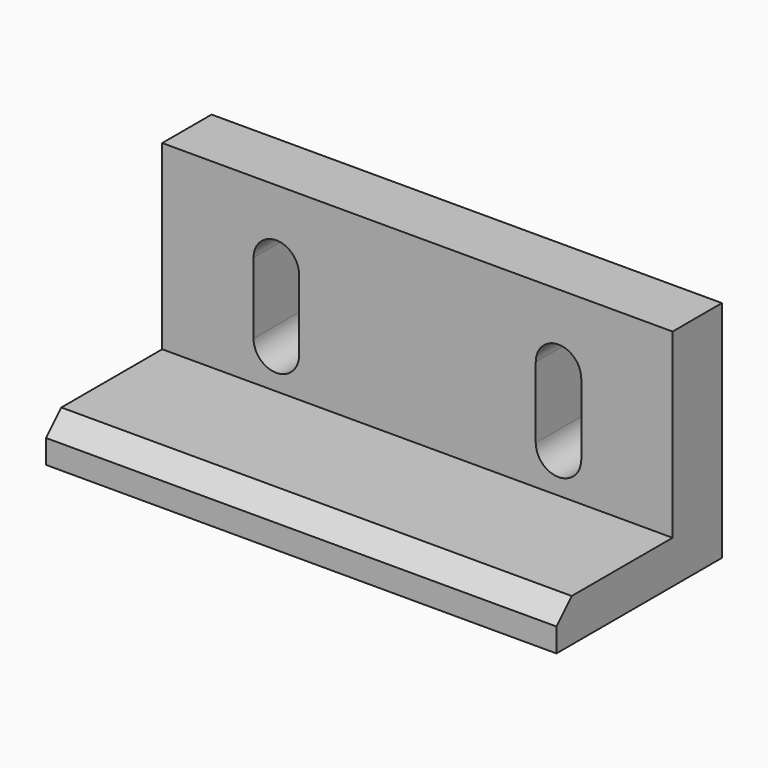
from build123d import *

# Parameters (mm, degrees)
F0_W     = 237.5140190125
F0_H     = 104.4240146875
F1_DEPTH = 28.702
F2_W     = 237.5140190125
F2_H     = 19.9324190617
F3_DEPTH = 67.564
F4_SIZE2 = 8.89
F4_SIZE  = 8.89


with BuildPart() as f1:
    # F0 (on Front) → F1 (new body)
    with BuildSketch(Plane.XZ):
        with Locations((0, -52.2120073438)):
            Rectangle(F0_W, F0_H)
        with BuildLine():
            ThreePointArc((-76.26119588, -33.1665679002), (-65.6689032912, -22.5742753114), (-55.0766107024, -33.1665679002))
            Line((-55.0766107024, -33.1665679002), (-55.0766107024, -66.2979632616))
            ThreePointArc((-55.0766107024, -66.2979632616), (-65.6689032912, -76.8902558504), (-76.26119588, -66.2979632616))
            ThreePointArc((-76.26119588, -66.2979632616), (-76.26119587, -66.2975014647), (-76.2611958398, -66.2970396679))
            Line((-76.26119588, -66.2970396679), (-76.26119588, -33.1665679002))
        make_face(mode=Mode.SUBTRACT)
        with BuildLine():
            Line((55.0766107024, -66.2979632616), (55.0766107024, -33.1665679002))
            ThreePointArc((55.0766107024, -33.1665679002), (65.6689032912, -22.5742753114), (76.26119588, -33.1665679002))
            Line((76.26119588, -33.1665679002), (76.26119588, -66.2970396679))
            Line((76.26119588, -66.2970396679), (76.26119588, -66.2979632616))
            ThreePointArc((76.26119588, -66.2979632616), (65.6689032912, -76.8902558504), (55.0766107024, -66.2979632616))
        make_face(mode=Mode.SUBTRACT)
    extrude(amount=F1_DEPTH)

    # F2 (on face) → F3 (join)
    with BuildSketch(Plane.XZ.offset(28.702)):
        with Locations((0, -94.4578051567)):
            Rectangle(F2_W, F2_H)
    extrude(amount=F3_DEPTH)

    # F4
    f4_edges = [f1.edges().sort_by_distance(p)[0] for p in [
        (0, -96.266, -84.491596),
    ]]
    chamfer(f4_edges, length=F4_SIZE, length2=F4_SIZE2)


solid = f1.part
